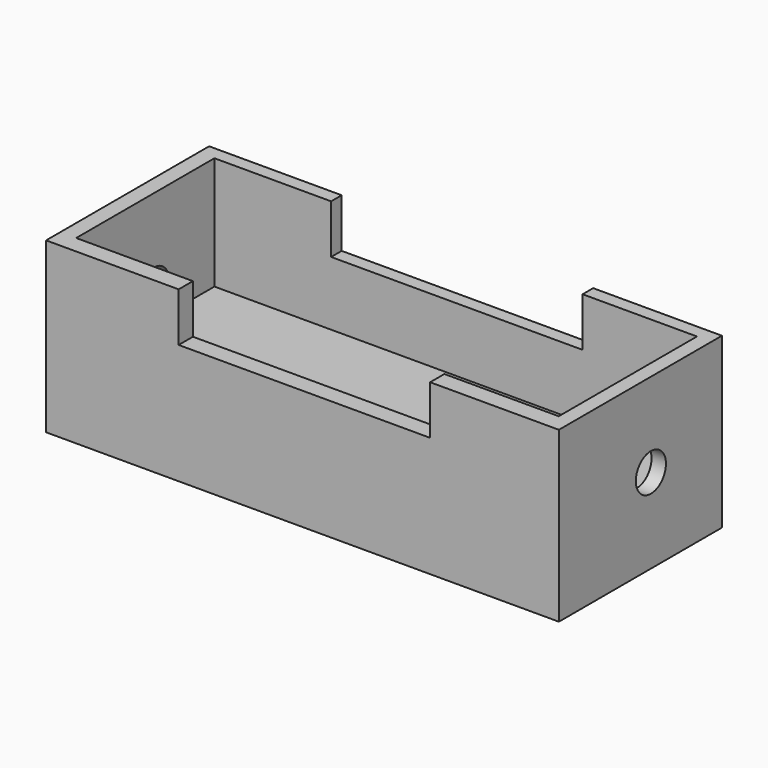
from build123d import *

# Parameters (mm, degrees)
F0_W     = 127.9677972198
F0_H     = 50.8497301489
F1_DEPTH = 42.164
F3_W     = 120.4143241048
F3_H     = 43.1107841432
F4_DEPTH = 28.194
F2_W     = 62.752943486
F2_H     = 12.2181459024
F5_DEPTH = 61.468
F6_R     = 4.6974309297
F7_DEPTH = 174.498


with BuildPart() as f1:
    # F0 (on Top) → F1 (new body)
    with BuildSketch(Plane.XY):
        with Locations((-0.2409927547, -9.3987649307)):
            Rectangle(F0_W, F0_H)
    extrude(amount=F1_DEPTH)

    # F3 (on face) → F4 (cut)
    with BuildSketch(Plane.XY.offset(42.164)):
        with Locations((-0.0583641231, -8.8241919875)):
            Rectangle(F3_W, F3_H)
    extrude(amount=-F4_DEPTH, mode=Mode.SUBTRACT)

    # F2 (on face) → F5 (cut)
    with BuildSketch(Plane.XZ.offset(34.8236300051)):
        with Locations((0.2353247255, 36.0549270488)):
            Rectangle(F2_W, F2_H)
    extrude(amount=-F5_DEPTH, mode=Mode.SUBTRACT)

    # F6 (on face) → F7 (cut)
    with BuildSketch(Plane(origin=(-64.2248913646, 0, 0), x_dir=(0, -1, 0), z_dir=(-1, 0, 0))):
        with Locations((6.1297980137, 21.1465246975)):
            Circle(F6_R)
    extrude(amount=-F7_DEPTH, mode=Mode.SUBTRACT)


solid = f1.part
